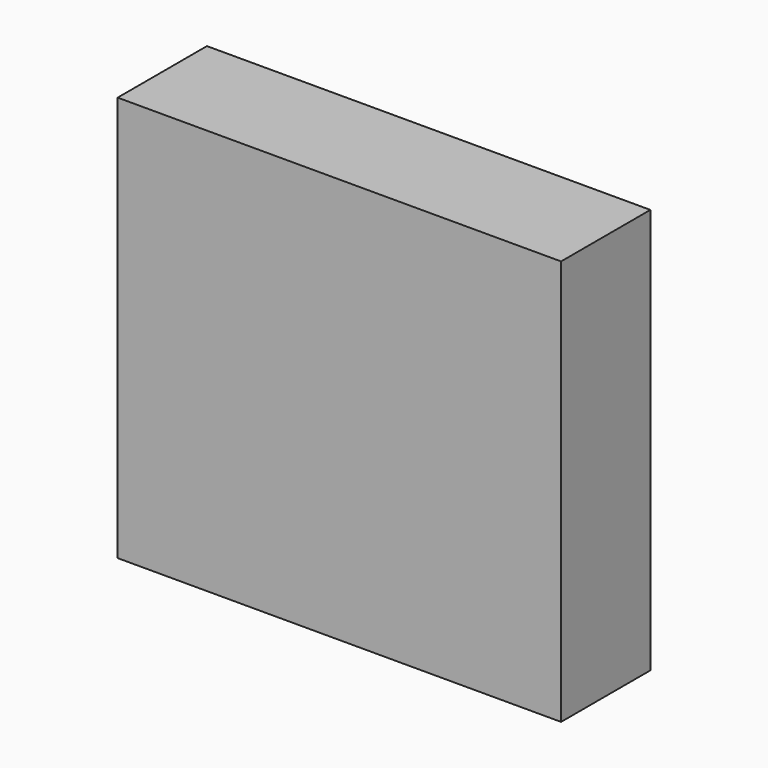
from build123d import *

# Parameters (mm, degrees)
F0_W     = 99.32971
F0_H     = 90.813056
F1_DEPTH = 25


with BuildPart() as f1:
    # F0 (on Front) → F1 (new body)
    with BuildSketch(Plane.XZ):
        Rectangle(F0_W, F0_H)
        Rectangle(F0_W, F0_H)
    extrude(amount=F1_DEPTH)


solid = f1.part
